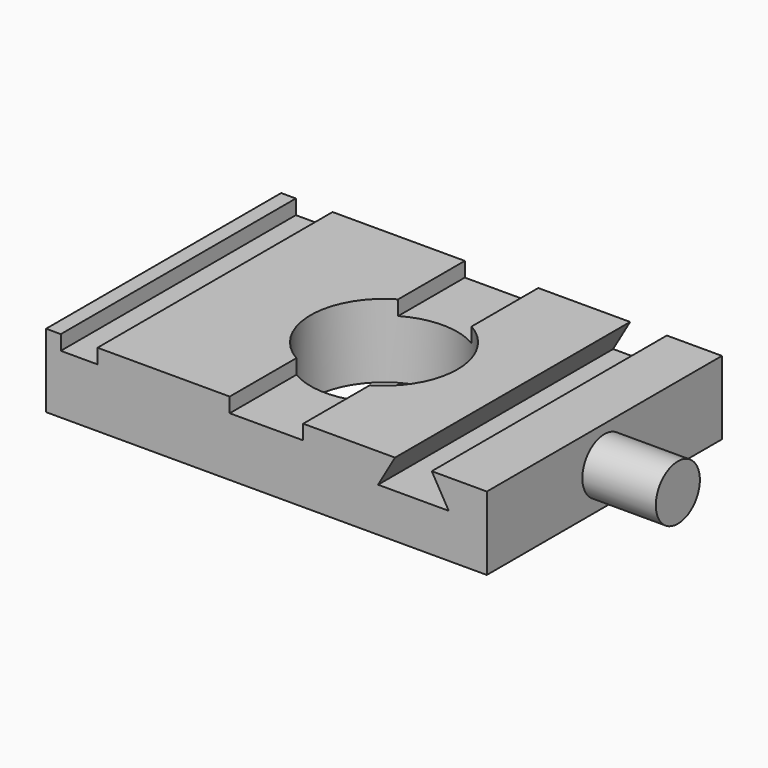
from build123d import *

# Parameters (mm, degrees)
F0_W     = 76.2
F0_H     = 50.8
F0_R     = 12.7
F1_DEPTH = 12.7
F2_W     = 6.35
F2_H     = 50.8
F3_DEPTH = 2.54
F5_DEPTH = 65.278
F6_R     = 4.7625
F7_DEPTH = 12.7


with BuildPart() as f1:
    # F0 (on Top) → F1 (new body)
    with BuildSketch(Plane.XY):
        Rectangle(F0_W, F0_H)
        Circle(F0_R, mode=Mode.SUBTRACT)
    extrude(amount=F1_DEPTH)

    # F2 (on face) → F3 (cut)
    with BuildSketch(Plane.XY.offset(12.7)):
        with Locations((-32.385, 0)):
            Rectangle(F2_W, F2_H)
        with BuildLine():
            Line((6.35, 25.4), (-6.35, 25.4))
            Line((-6.35, 25.4), (-6.35, 10.9985226281))
            ThreePointArc((-6.35, 10.9985226281), (0, 12.7), (6.35, 10.9985226281))
            Line((6.35, 10.9985226281), (6.35, 25.4))
        make_face()
        with BuildLine():
            Line((-6.35, -10.9985226281), (-6.35, -25.4))
            Line((-6.35, -25.4), (6.35, -25.4))
            Line((6.35, -25.4), (6.35, -10.9985226281))
            ThreePointArc((6.35, -10.9985226281), (0, -12.7), (-6.35, -10.9985226281))
        make_face()
    extrude(amount=-F3_DEPTH, mode=Mode.SUBTRACT)

    # F4 (on face) → F5 (cut)
    with BuildSketch(Plane.XZ.offset(25.4)):
        Polygon((28.575, 12.7), (22.225, 12.7), (19.2920606325, 7.62), (31.5079393675, 7.62), align=None)
    extrude(amount=-F5_DEPTH, mode=Mode.SUBTRACT)

    # F6 (on face) → F7 (join)
    with BuildSketch(Plane.YZ.offset(38.1)):
        with Locations((0, 6.35)):
            Circle(F6_R)
    extrude(amount=F7_DEPTH)


solid = f1.part
